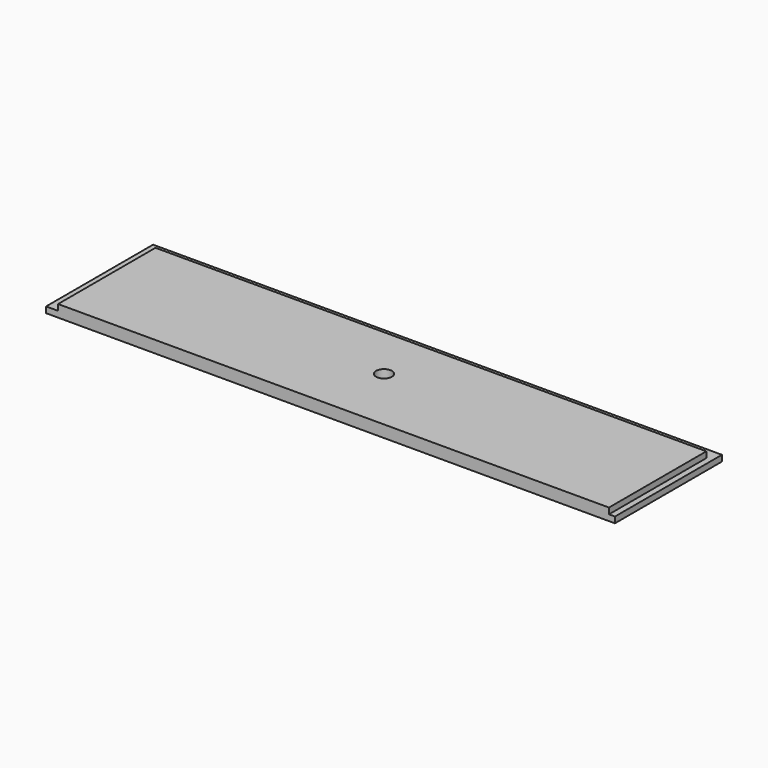
from build123d import *

# Parameters (mm, degrees)
F0_W     = 876.3
F0_H     = 193.675
F0_R     = 12.7
F1_DEPTH = 19.05
F2_DEPTH = 9.525


with BuildPart() as f1:
    # F0 (on Top) → F1 (new body)
    with BuildSketch(Plane.XY):
        with Locations((457.2, 96.8375)):
            Rectangle(F0_W, F0_H)
        with Locations((452.4375, 106.3625)):
            Circle(F0_R, mode=Mode.SUBTRACT)
    extrude(amount=F1_DEPTH)

    # F0 (on Top) → F2 (join)
    with BuildSketch(Plane.XY):
        Polygon((0, 212.725), (0, 0), (19.05, 0), (19.05, 193.675), (895.35, 193.675), (895.35, 0), (904.875, 0), (904.875, 212.725), align=None)
        with Locations((457.2, 96.8375)):
            Rectangle(F0_W, F0_H)
        with Locations((452.4375, 106.3625)):
            Circle(F0_R, mode=Mode.SUBTRACT)
    extrude(amount=F2_DEPTH)


solid = f1.part
